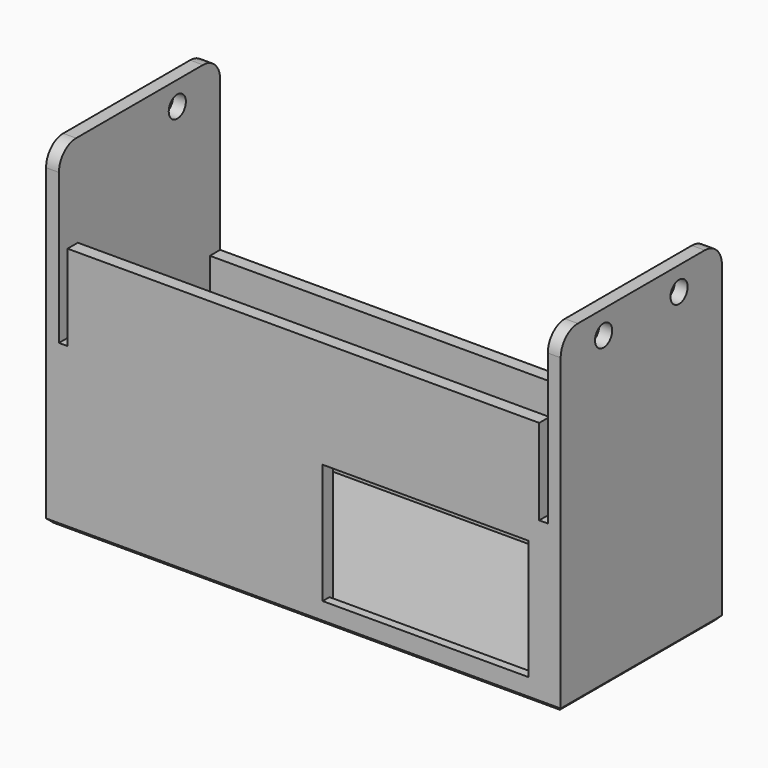
from build123d import *

# Parameters (mm, degrees)
F2_R      = 2.5
F3_DEPTH  = 3
F4_W      = 3
F4_H      = 35
F4_H_2    = 3
F4_W_2    = 41
F5_DEPTH  = 114
F6_R      = 2.5
F7_DEPTH  = 3
F8_W      = 110
F8_H      = 20
F9_DEPTH  = 3
F10_W     = 47
F10_H     = 26
F10_W_2   = 48
F10_H_2   = 28
F11_DEPTH = 3
F12_SIZE  = 1
F14_W     = 48
F14_H     = 2
F14_W_2   = 47
F15_DEPTH = 1
F16_DEPTH = 26


with BuildPart() as f3:
    # F2 (on Right) → F3 (new body)
    with BuildSketch(Plane.YZ):
        with BuildLine():
            ThreePointArc((22.5, 35), (21.0355339059, 38.5355339059), (17.5, 40))
            Line((17.5, 40), (-19.5, 40))
            ThreePointArc((-19.5, 40), (-23.0355339059, 38.5355339059), (-24.5, 35))
            Line((-24.5, 35), (-24.5, -38))
            Line((-24.5, -38), (22.5, -38))
            Line((22.5, -38), (22.5, 35))
        make_face()
        with Locations((-12, 34.5)):
            Circle(F2_R, mode=Mode.SUBTRACT)
        with Locations((10, 34.5)):
            Circle(F2_R, mode=Mode.SUBTRACT)
    extrude(amount=F3_DEPTH)

    # F4 (on Right) → F5 (join)
    with BuildSketch(Plane.YZ):
        with Locations((-23, -17.5)):
            Rectangle(F4_W, F4_H)
        with Locations((21, -36.5)):
            Rectangle(F4_W, F4_H_2)
        with Locations((21, -17.5)):
            Rectangle(F4_W, F4_H)
        with Locations((-1, -36.5)):
            Rectangle(F4_W_2, F4_H_2)
        with Locations((-23, -36.5)):
            Rectangle(F4_W, F4_H_2)
    extrude(amount=-F5_DEPTH)

    # F6 (on face) → F7 (join)
    with BuildSketch(Plane(origin=(-114, 0, 0), x_dir=(0, -1, 0), z_dir=(-1, 0, 0))):
        with BuildLine():
            ThreePointArc((24.5, 35), (23.0355339059, 38.5355339059), (19.5, 40))
            Line((19.5, 40), (-17.5, 40))
            ThreePointArc((-17.5, 40), (-21.0355339059, 38.5355339059), (-22.5, 35))
            Line((-22.5, 35), (-22.5, -38))
            Line((-22.5, -38), (24.5, -38))
            Line((24.5, -38), (24.5, 35))
        make_face()
        with Locations((-10, 34.5)):
            Circle(F6_R, mode=Mode.SUBTRACT)
    extrude(amount=F7_DEPTH)

    # F8 (on face) → F9 (join)
    with BuildSketch(Plane.XZ.offset(24.5)):
        with Locations((-57, 10)):
            Rectangle(F8_W, F8_H)
    extrude(amount=-F9_DEPTH)

    # F10 (on face) → F11 (cut, through all)
    with BuildSketch(Plane.XZ.offset(24.5)):
        with Locations((-85.5, -19)):
            Rectangle(F10_W, F10_H)
        with Locations((-28.5, -19)):
            Rectangle(F10_W_2, F10_H_2)
    extrude(amount=-F11_DEPTH, mode=Mode.SUBTRACT)

    # F12
    f12_edges = [f3.edges().sort_by_distance(p)[0] for p in [
        (-57, -24.5, -38),
        (3, -1, -38),
        (-57, 22.5, -38),
        (-117, -1, -38),
    ]]
    chamfer(f12_edges, length=F12_SIZE)

    # F14 (on face) → F15 (cut)
    with BuildSketch(Plane(origin=(0, -21.5, 0), x_dir=(-1, 0, 0), z_dir=(0, 1, 0))):
        with Locations((28.5, -34)):
            Rectangle(F14_W, F14_H)
        with Locations((85.5, -33)):
            Rectangle(F14_W_2, F14_H)
        with Locations((85.5, -5)):
            Rectangle(F14_W_2, F14_H)
        with Locations((28.5, -4)):
            Rectangle(F14_W, F14_H)
    extrude(amount=-F15_DEPTH, mode=Mode.SUBTRACT)

    # F16 (add): a face of the model
    f16_faces = [f3.faces().sort_by_distance(p)[0] for p in [
        (-85.5, -23.5, -32),
    ]]
    extrude(f16_faces, amount=F16_DEPTH)


solid = f3.part
